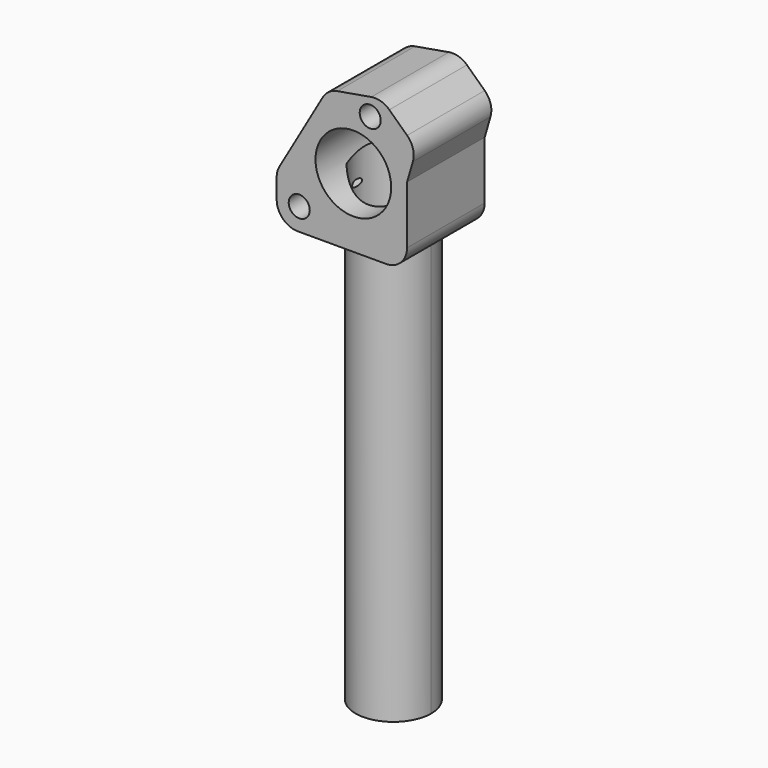
from build123d import *

# Parameters (mm, degrees)
F0_R     = 2.54
F1_DEPTH = 23.4442
F3_D     = 18.288
F3_DEPTH = 16.51
F3_TIP   = 5.4942695004
F5_DEPTH = 101.6
F7_D     = 17.78
F7_DEPTH = 114.3
F7_TIP   = 5.3416509032
F8_R     = 5.08


with BuildPart() as f1:
    # F0 (on Front) → F1 (new body)
    with BuildSketch(Plane.XZ):
        Polygon((14.5139638376, 46.979337565), (6.0992269906, 54.9012346102), (-6.9395108012, 52.6397765944), (-19.2585108012, 31.302642696), (-19.2585108012, 20.126642696), (0.6639761268, 20.126642696), (12.2374891988, 20.126642696), (12.2374891988, 39.176642696), align=None)
        with Locations((-13.805717687, 25.5267831615)):
            Circle(F0_R, mode=Mode.SUBTRACT)
        with Locations((3.3416109761, 50.2072100538)):
            Circle(F0_R, mode=Mode.SUBTRACT)
    extrude(amount=F1_DEPTH)

    # F3
    with Locations(Plane.XZ.offset(23.4442)):
        with Locations((-0.7346722452, 36.7999244481)):
            Hole(F3_D / 2, depth=F3_DEPTH)
            with Locations((0, 0, -(F3_DEPTH + F3_TIP / 2))):  # 118° drill point
                Cone(0, F3_D / 2, F3_TIP, mode=Mode.SUBTRACT)

    # F4 (on face) → F5 (join)
    with BuildSketch(Plane(origin=(0, 0, 20.126642696), x_dir=(1, 0, 0), z_dir=(0, 0, -1))):
        with BuildLine():
            ThreePointArc((-2.5011187059, 0), (3.9646657012, 2.6782155928), (6.6428812941, 9.144))
            ThreePointArc((6.6428812941, 9.144), (-8.9669031131, 15.6097844072), (-2.5011187059, 0))
        make_face()
    extrude(amount=F5_DEPTH)

    # F7
    with Locations(Plane(origin=(0, 0, -81.473357304), x_dir=(1, 0, 0), z_dir=(0, 0, -1))):
        with Locations((-2.5011187059, 9.144)):
            Hole(F7_D / 2, depth=F7_DEPTH)
            with Locations((0, 0, -(F7_DEPTH + F7_TIP / 2))):  # 118° drill point
                Cone(0, F7_D / 2, F7_TIP, mode=Mode.SUBTRACT)

    # F8
    f8_edges = [f1.edges().sort_by_distance(p)[0] for p in [
        (6.099227, -11.7221, 54.901235),
        (14.513964, -11.7221, 46.979338),
        (12.237489, -11.7221, 20.126643),
        (-19.258511, -11.7221, 20.126643),
        (-6.939511, -11.7221, 52.639777),
        (-19.258511, -11.7221, 31.302643),
    ]]
    fillet(f8_edges, radius=F8_R)


solid = f1.part
